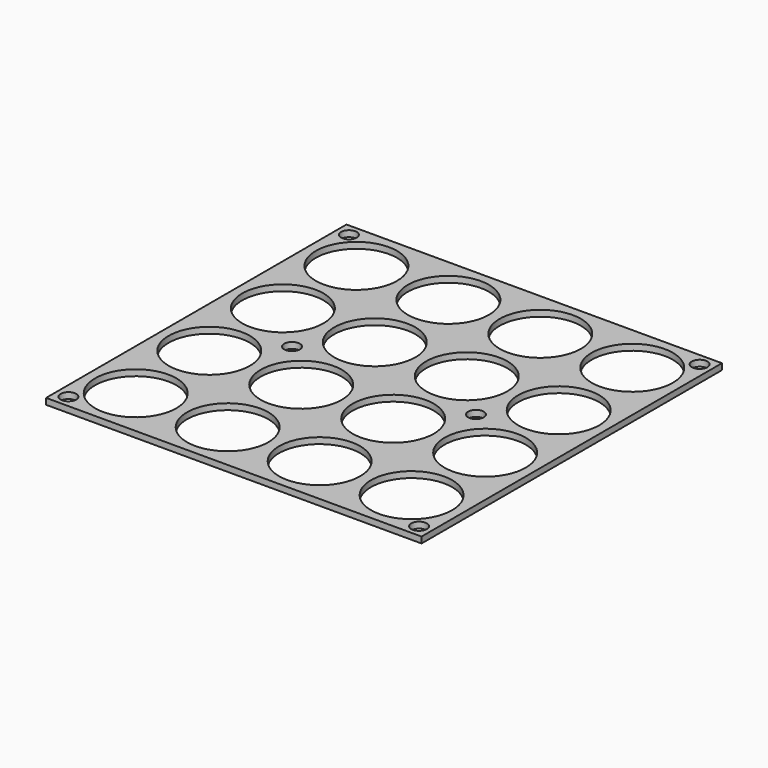
from build123d import *

# Parameters (mm, degrees)
F0_W     = 122.5
F0_H     = 122.5
F0_R     = 2.55
F0_R_2   = 13.25
F1_DEPTH = 2


with BuildPart() as f1:
    # F0 (on Top) → F1 (new body)
    with BuildSketch(Plane.XY):
        Rectangle(F0_W, F0_H)
        with Locations((-57.2, -57.2)):
            Circle(F0_R, mode=Mode.SUBTRACT)
        with Locations((-45, -45)):
            Circle(F0_R_2, mode=Mode.SUBTRACT)
        with Locations((-15, -45)):
            Circle(F0_R_2, mode=Mode.SUBTRACT)
        with Locations((-45, -15)):
            Circle(F0_R_2, mode=Mode.SUBTRACT)
        with Locations((-15, -15)):
            Circle(F0_R_2, mode=Mode.SUBTRACT)
        with Locations((15, -45)):
            Circle(F0_R_2, mode=Mode.SUBTRACT)
        with Locations((57.2, -57.2)):
            Circle(F0_R, mode=Mode.SUBTRACT)
        with Locations((45, -45)):
            Circle(F0_R_2, mode=Mode.SUBTRACT)
        with Locations((15, -15)):
            Circle(F0_R_2, mode=Mode.SUBTRACT)
        with Locations((45, -15)):
            Circle(F0_R_2, mode=Mode.SUBTRACT)
        with Locations((-45, 15)):
            Circle(F0_R_2, mode=Mode.SUBTRACT)
        with Locations((-30, 0)):
            Circle(F0_R, mode=Mode.SUBTRACT)
        with Locations((-15, 15)):
            Circle(F0_R_2, mode=Mode.SUBTRACT)
        with Locations((-45, 45)):
            Circle(F0_R_2, mode=Mode.SUBTRACT)
        with Locations((-57.2, 57.2)):
            Circle(F0_R, mode=Mode.SUBTRACT)
        with Locations((-15, 45)):
            Circle(F0_R_2, mode=Mode.SUBTRACT)
        with Locations((15, 15)):
            Circle(F0_R_2, mode=Mode.SUBTRACT)
        with Locations((30, 0)):
            Circle(F0_R, mode=Mode.SUBTRACT)
        with Locations((45, 15)):
            Circle(F0_R_2, mode=Mode.SUBTRACT)
        with Locations((15, 45)):
            Circle(F0_R_2, mode=Mode.SUBTRACT)
        with Locations((45, 45)):
            Circle(F0_R_2, mode=Mode.SUBTRACT)
        with Locations((57.2, 57.2)):
            Circle(F0_R, mode=Mode.SUBTRACT)
    extrude(amount=F1_DEPTH)


solid = f1.part
